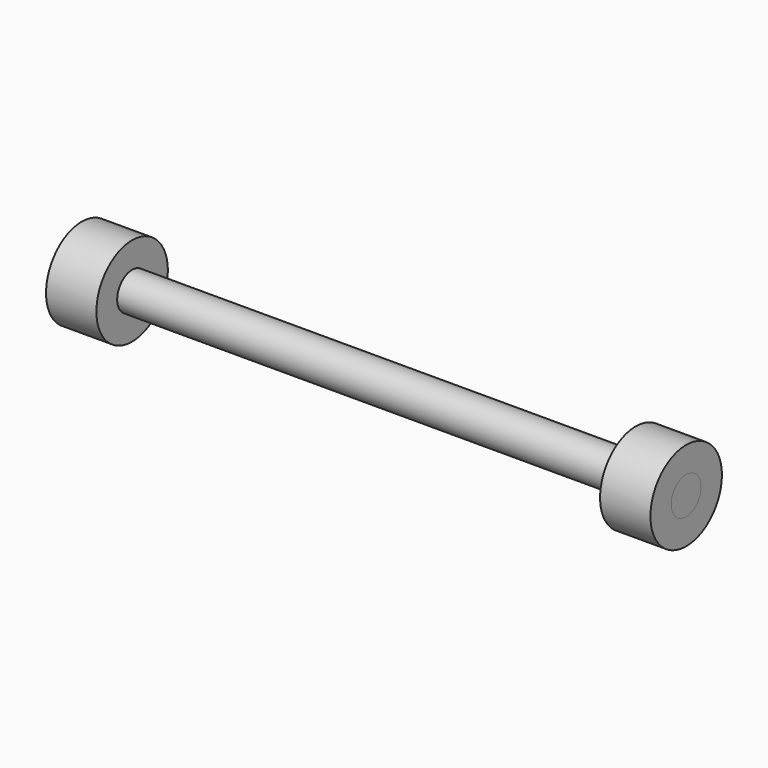
from build123d import *

# Parameters (mm, degrees)
F0_R     = 9.269029
F1_DEPTH = 150
F0_R_2   = 22.176475
F2_DEPTH = 25


with BuildPart() as f1:
    # F0 (on Right) → F1 (new body, symmetric)
    with BuildSketch(Plane.YZ):
        Circle(F0_R)
    extrude(amount=F1_DEPTH, both=True)


with BuildPart() as f2:
    # F0 (on Right) → F2 (new body)
    with BuildSketch(Plane.YZ):
        Circle(F0_R_2)
        Circle(F0_R, mode=Mode.SUBTRACT)
    extrude(amount=F2_DEPTH)


with BuildPart() as f3_1:
    # F3: copy of F2
    add(f2.part.moved(Location((125, 0, 0))))


with BuildPart() as f2_1:
    # F4: moved
    add(f2.part.moved(Location((-150, 0, 0))))


solid = Compound([f1.part, f3_1.part, f2_1.part])
